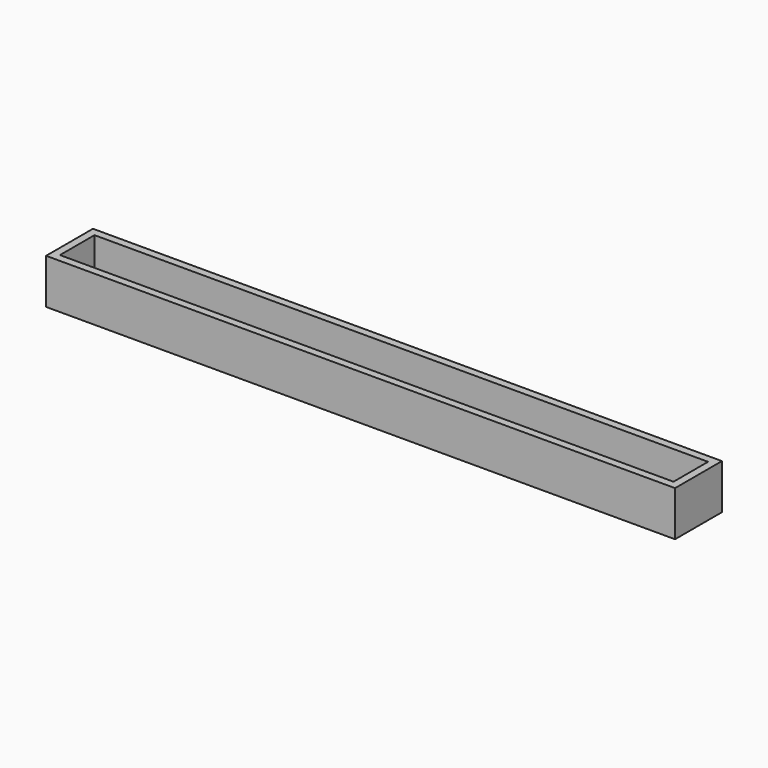
from build123d import *

# Parameters (mm, degrees)
F0_W     = 252.73
F0_H     = 17.78
F1_DEPTH = 3.175
F0_W_2   = 259.08
F0_H_2   = 24.13
F2_DEPTH = 18.542
F3_R     = 3.81
F4_DEPTH = 6.35


with BuildPart() as f1:
    # F0 (on Top) → F1 (new body)
    with BuildSketch(Plane.XY):
        with Locations((1.460627, -9.965609)):
            Rectangle(F0_W, F0_H)
    extrude(amount=F1_DEPTH)

    # F0 (on Top) → F2 (join)
    with BuildSketch(Plane.XY):
        with Locations((1.460627, -9.965609)):
            Rectangle(F0_W_2, F0_H_2)
        with Locations((1.460627, -9.965609)):
            Rectangle(F0_W, F0_H, mode=Mode.SUBTRACT)
    extrude(amount=F2_DEPTH)

    # F3 (on face) → F4 (join)
    with BuildSketch(Plane(origin=(-128.079373, 0, 0), x_dir=(0, -1, 0), z_dir=(-1, 0, 0))):
        with Locations((9.965609, 9.271)):
            Circle(F3_R)
    extrude(amount=F4_DEPTH)


solid = f1.part
